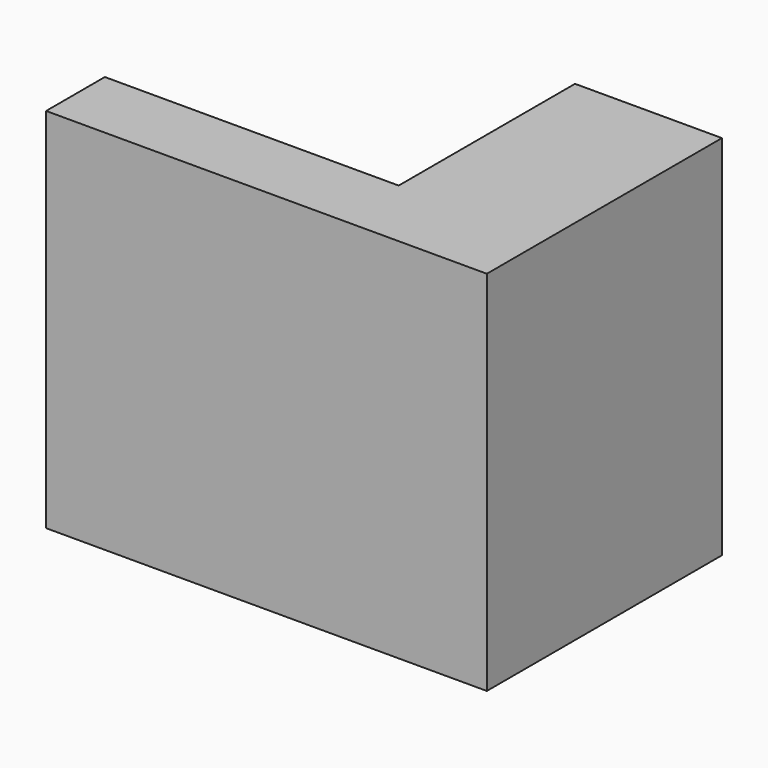
from build123d import *

# Parameters (mm, degrees)
F0_W     = 38.1
F0_H     = 31.75
F1_DEPTH = 25.4
F3_DEPTH = 19.05
F5_DEPTH = 25.4


with BuildPart() as f1:
    # F0 (on Front) → F1 (new body)
    with BuildSketch(Plane.XZ):
        with Locations((19.05, 15.875)):
            Rectangle(F0_W, F0_H)
    extrude(amount=F1_DEPTH)

    # F2 (on Right) → F3 (cut)
    with BuildSketch(Plane.YZ):
        Polygon((0, 6.35), (0, 25.535107), (0, 31.75), (-19.05, 31.75), align=None)
    extrude(amount=-F3_DEPTH, mode=Mode.SUBTRACT)

    # F4 (on face) → F5 (cut)
    with BuildSketch(Plane(origin=(0, 0, 0), x_dir=(0, -1, 0), z_dir=(-1, 0, 0))):
        Polygon((0, 6.35), (19.05, 31.75), (0, 31.75), align=None)
    extrude(amount=-F5_DEPTH, mode=Mode.SUBTRACT)


solid = f1.part
